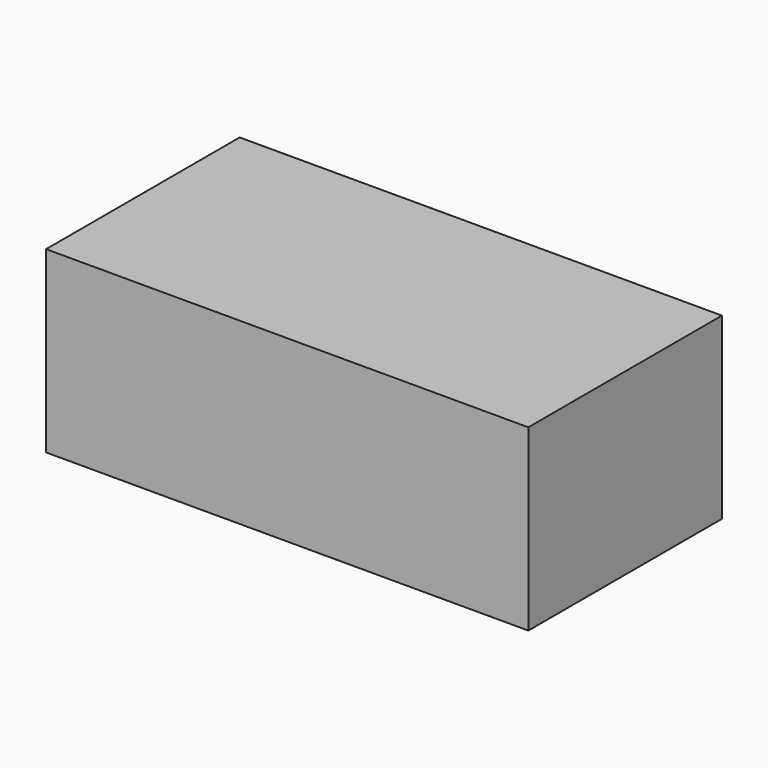
from build123d import *

# Parameters (mm, degrees)
SKETCH_W  = 73.914
SKETCH_H  = 37.084
PAD_DEPTH = 27.432


with BuildPart() as part:
    # Sketch → Pad (new body)
    with BuildSketch(Plane.XY):
        Rectangle(SKETCH_W, SKETCH_H)
    extrude(amount=PAD_DEPTH)


solid = part.part
